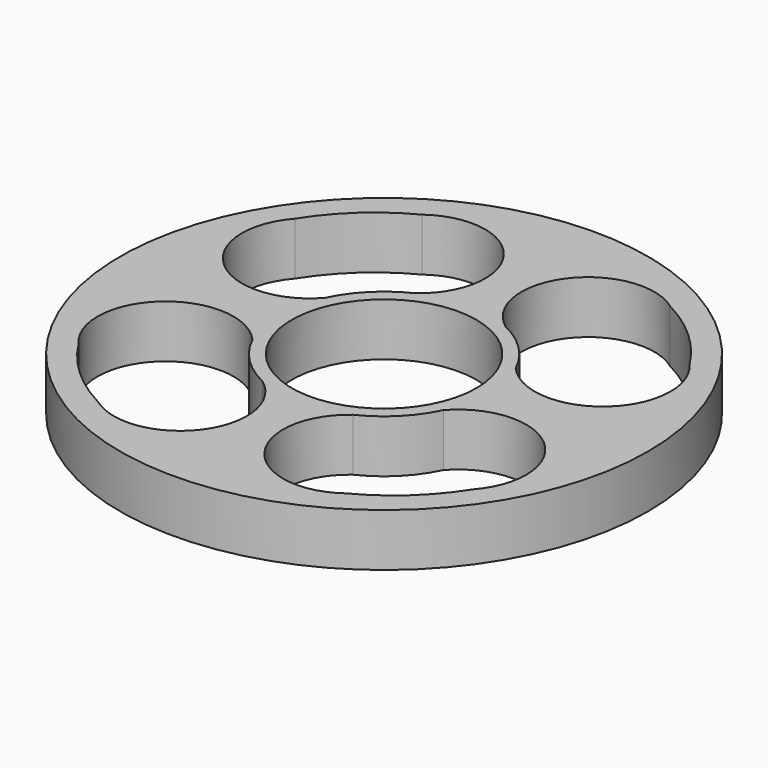
from build123d import *

# Parameters (mm, degrees)
F0_R     = 31.75
F0_R_2   = 11.1125
F1_DEPTH = 6.35
F3_DEPTH = 6.351


with BuildPart() as f1:
    # F0 (on Top) → F1 (new body)
    with BuildSketch(Plane.XY):
        Circle(F0_R)
        Circle(F0_R_2, mode=Mode.SUBTRACT)
    extrude(amount=F1_DEPTH)

    # F2 (on Top) → F3 (cut, through all)
    with BuildSketch(Plane.XY):
        with BuildLine():
            ThreePointArc((23.73958, 16.258981), (19.869054, 20.904466), (14.915959, 24.372658))
            ThreePointArc((14.915959, 24.372658), (3.730354, 22.660155), (5.442857, 11.47455))
            ThreePointArc((5.442857, 11.47455), (8.980256, 8.980256), (11.47455, 5.442857))
            ThreePointArc((11.47455, 5.442857), (23.015127, 4.718404), (23.73958, 16.258981))
        make_face()
        with BuildLine():
            ThreePointArc((14.915959, -24.372658), (19.869054, -20.904466), (23.73958, -16.258981))
            ThreePointArc((23.73958, -16.258981), (23.015127, -4.718404), (11.47455, -5.442857))
            ThreePointArc((11.47455, -5.442857), (8.980256, -8.980256), (5.442857, -11.47455))
            ThreePointArc((5.442857, -11.47455), (3.730354, -22.660155), (14.915959, -24.372658))
        make_face()
        with BuildLine():
            ThreePointArc((-5.442857, 11.47455), (-3.730354, 22.660155), (-14.915959, 24.372658))
            ThreePointArc((-14.915959, 24.372658), (-19.869054, 20.904466), (-23.73958, 16.258981))
            ThreePointArc((-23.73958, 16.258981), (-23.015127, 4.718404), (-11.47455, 5.442857))
            ThreePointArc((-11.47455, 5.442857), (-8.980256, 8.980256), (-5.442857, 11.47455))
        make_face()
        with BuildLine():
            ThreePointArc((-5.442857, -11.47455), (-8.980256, -8.980256), (-11.47455, -5.442857))
            ThreePointArc((-11.47455, -5.442857), (-23.015127, -4.718404), (-23.73958, -16.258981))
            ThreePointArc((-23.73958, -16.258981), (-19.869054, -20.904466), (-14.915959, -24.372658))
            ThreePointArc((-14.915959, -24.372658), (-3.730354, -22.660155), (-5.442857, -11.47455))
        make_face()
    extrude(amount=F3_DEPTH, mode=Mode.SUBTRACT)


solid = f1.part
